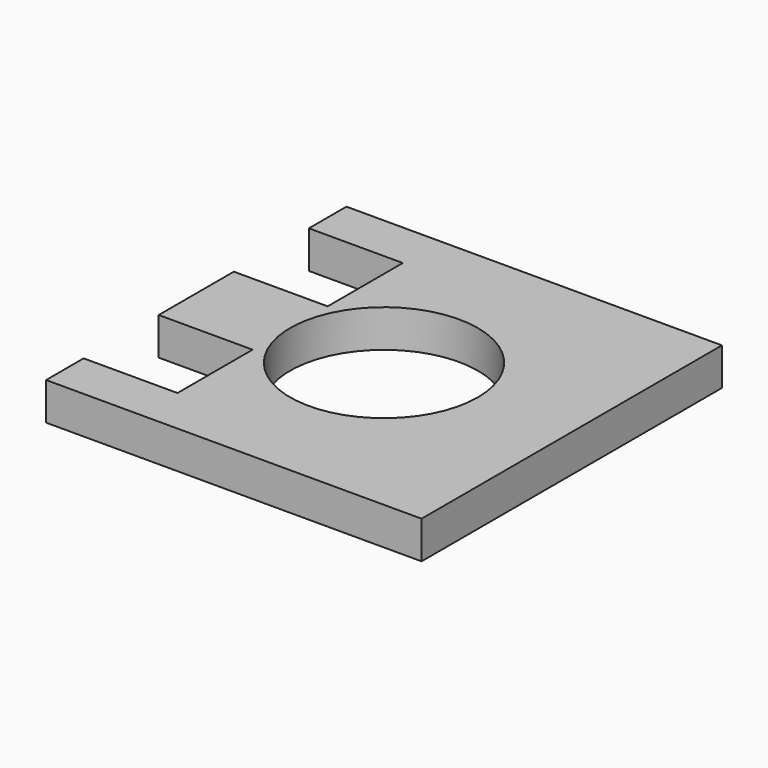
from build123d import *

# Parameters (mm, degrees)
F0_W     = 20
F0_H     = 20
F0_R     = 5
F1_DEPTH = 2
F2_W     = 5
F2_H     = 5
F3_DEPTH = 2.001


with BuildPart() as f1:
    # F0 (on Top) → F1 (new body)
    with BuildSketch(Plane.XY):
        Rectangle(F0_W, F0_H)
        Circle(F0_R, mode=Mode.SUBTRACT)
    extrude(amount=F1_DEPTH)

    # F2 (on face) → F3 (cut, through all)
    with BuildSketch(Plane.XY.offset(2)):
        with Locations((-12.5, -5)):
            Rectangle(F2_W, F2_H)
        with Locations((-7.5, -5)):
            Rectangle(F2_W, F2_H)
        with Locations((-12.5, 5)):
            Rectangle(F2_W, F2_H)
        with Locations((-7.5, 5)):
            Rectangle(F2_W, F2_H)
    extrude(amount=-F3_DEPTH, mode=Mode.SUBTRACT)


solid = f1.part
